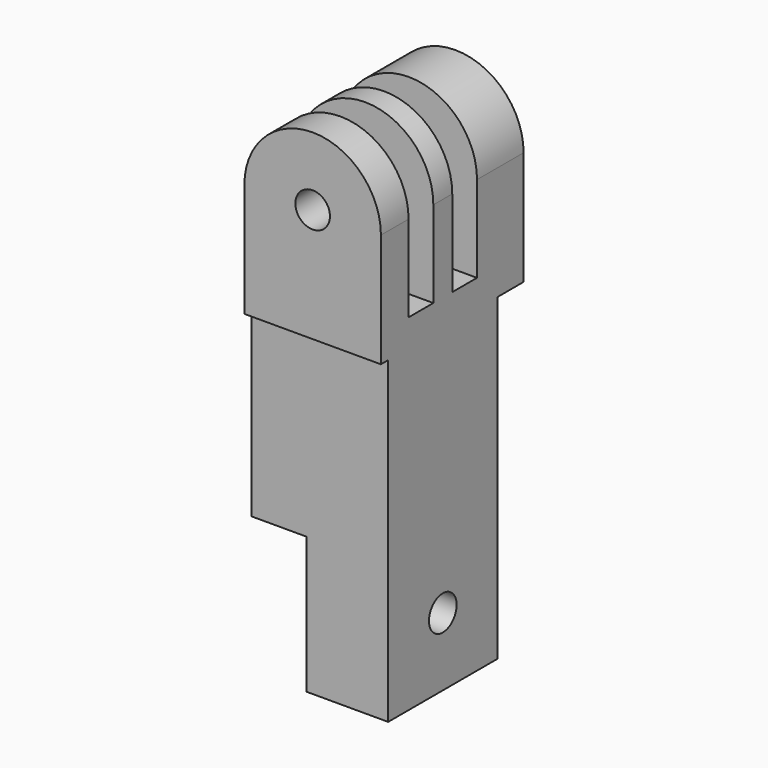
from build123d import *

# Parameters (mm, degrees)
BOX003_W                  = 15
BOX003_H                  = 3.4
BOX003_DEPTH              = 17
ARRAY_Y_COUNT             = 2
ARRAY_Y_PITCH             = 6
CYLINDER002_R             = 2.2
CYLINDER002_DEPTH         = 6
CYLINDER001_R             = 1.9
CYLINDER001_DEPTH         = 15
FUSION001_PLACEMENT_ANGLE = 90
CYLINDER_R                = 7.5
CYLINDER_DEPTH            = 19.6
BOX002_W                  = 15
BOX002_H                  = 19.6
BOX002_DEPTH              = 12.5
CYLINDER006_R             = 1.9
CYLINDER006_DEPTH         = 15
BOX007_W                  = 9
BOX007_H                  = 15
BOX007_DEPTH              = 15
BOX006_W                  = 15
BOX006_H                  = 15
BOX006_DEPTH              = 20


with BuildPart() as side_3_extract_cube_array:
    # Box003 → Box003 (new body)
    with BuildSketch(Plane(origin=(-7.5, -7.7, 3), x_dir=(1, 0, 0), z_dir=(0, 0, 1))):
        with Locations((7.5, 1.7)):
            Rectangle(BOX003_W, BOX003_H)
    extrude(amount=BOX003_DEPTH)

    # Array Y: side 3 extract cube array ×2


with BuildPart() as side_3_extract_cube_array_1:
    add(side_3_extract_cube_array.part)
    with Locations(*[(0, i * ARRAY_Y_PITCH, 0) for i in range(1, ARRAY_Y_COUNT)]):
        add(side_3_extract_cube_array.part)


with BuildPart() as side_3_extract_cube_array_2:
    # Array placement: moved
    add(side_3_extract_cube_array_1.part.moved(Location((0, 3, 0))))


with BuildPart() as insert_hole:
    # Cylinder002 → Cylinder002 (new body)
    with BuildSketch(Plane.XY):
        Circle(CYLINDER002_R)
    extrude(amount=CYLINDER002_DEPTH)


with BuildPart() as side_3_extract_fusion:
    # Cylinder001 → Cylinder001 (new body)
    with BuildSketch(Plane.XY.offset(6)):
        Circle(CYLINDER001_R)
    extrude(amount=CYLINDER001_DEPTH)

    # Fusion001: union insert hole
    add(insert_hole.part)


with BuildPart() as side_3_extract_fusion_1:
    # Fusion001 placement: moved
    add(side_3_extract_fusion.part.moved(Location((0, 11.1, 12.5))).rotate(Axis((0, 11.1, 12.5), (1, 0, 0)), FUSION001_PLACEMENT_ANGLE))

    # Fusion002: union side 3 extract cube array
    add(side_3_extract_cube_array_2.part)


with BuildPart() as outer_cylinder:
    # Cylinder → Cylinder (new body)
    with BuildSketch(Plane(origin=(0, 11.1, 12.5), x_dir=(1, 0, 0), z_dir=(0, -1, 0))):
        Circle(CYLINDER_R)
    extrude(amount=CYLINDER_DEPTH)


with BuildPart() as side_3_cut_clone001:
    # Box002 → Box002 (new body)
    with BuildSketch(Plane(origin=(-7.5, -8.5, 0), x_dir=(1, 0, 0), z_dir=(0, 0, 1))):
        with Locations((7.5, 9.8)):
            Rectangle(BOX002_W, BOX002_H)
    extrude(amount=BOX002_DEPTH)

    # Fusion: union outer cylinder
    add(outer_cylinder.part)

    # Cut: cut side 3 extract fusion
    add(side_3_extract_fusion_1.part, mode=Mode.SUBTRACT)


with BuildPart() as side_3_cut_clone001_1:
    # Body002 placement: moved
    add(side_3_cut_clone001.part.moved(Location((0, 0, 35))))


with BuildPart() as bolt_hole001:
    # Cylinder006 → Cylinder006 (new body)
    with BuildSketch(Plane(origin=(-7.5, 0, 7.5), x_dir=(0, 0, -1), z_dir=(1, 0, 0))):
        Circle(CYLINDER006_R)
    extrude(amount=CYLINDER006_DEPTH)


with BuildPart() as one_cube_with_bolt_hole:
    # Box007 → Box007 (new body)
    with BuildSketch(Plane(origin=(-1.5, -7.5, 0), x_dir=(1, 0, 0), z_dir=(0, 0, 1))):
        with Locations((4.5, 7.5)):
            Rectangle(BOX007_W, BOX007_H)
    extrude(amount=BOX007_DEPTH)

    # Cut002: cut bolt hole001
    add(bolt_hole001.part, mode=Mode.SUBTRACT)


with BuildPart() as side_3_one_fusion:
    # Box006 → Box006 (new body)
    with BuildSketch(Plane(origin=(-7.5, -7.5, 15), x_dir=(1, 0, 0), z_dir=(0, 0, 1))):
        with Locations((7.5, 7.5)):
            Rectangle(BOX006_W, BOX006_H)
    extrude(amount=BOX006_DEPTH)

    # Fusion005: union side 3 cut clone001, one cube with bolt hole
    add(side_3_cut_clone001_1.part)
    add(one_cube_with_bolt_hole.part)


solid = side_3_one_fusion.part
